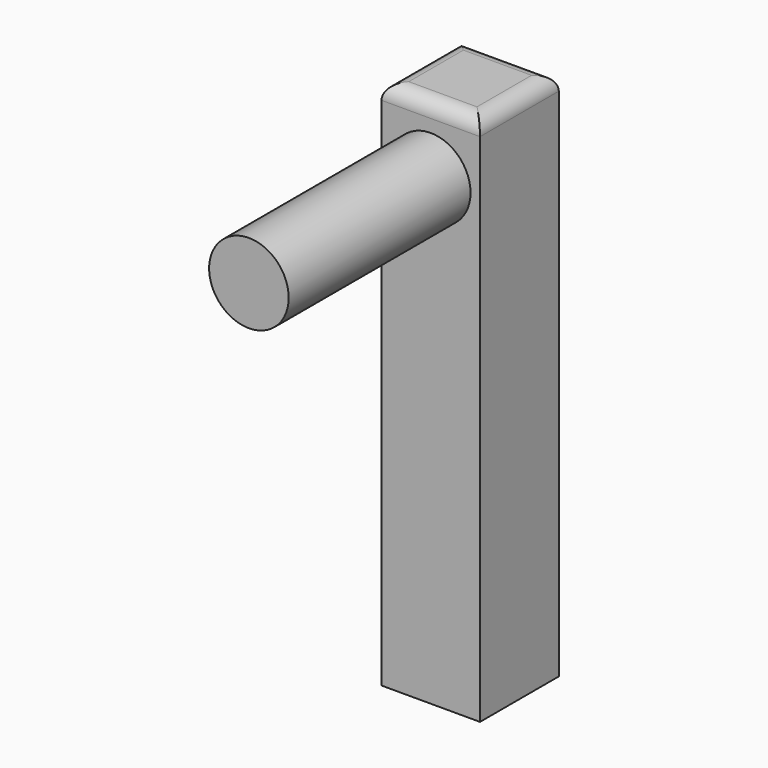
from build123d import *

# Parameters (mm, degrees)
F0_W     = 13
F0_H     = 13
F1_DEPTH = 70
F2_R     = 2
F3_R     = 5.25
F4_DEPTH = 30


with BuildPart() as f1:
    # F0 (on Top) → F1 (new body)
    with BuildSketch(Plane.XY):
        Rectangle(F0_W, F0_H)
    extrude(amount=F1_DEPTH)

    # F2
    f2_edges = [f1.edges().sort_by_distance(p)[0] for p in [
        (0, 6.5, 70),
        (-6.5, 0, 70),
        (0, -6.5, 70),
        (6.5, 0, 70),
    ]]
    fillet(f2_edges, radius=F2_R)

    # F3 (on face) → F4 (join)
    with BuildSketch(Plane.XZ.offset(6.5)):
        with Locations((0, 61.068749)):
            Circle(F3_R)
    extrude(amount=F4_DEPTH)


solid = f1.part
